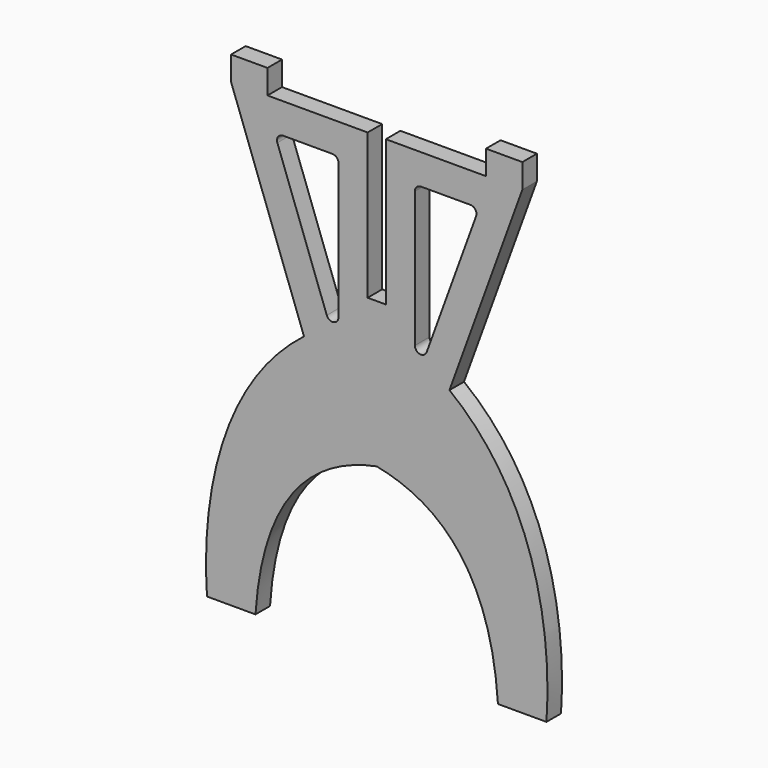
from build123d import *

# Parameters (mm, degrees)
F1_DEPTH = 19.05
F3_DEPTH = 25.4


with BuildPart() as f1:
    # F0 (on Front) → F1 (new body)
    with BuildSketch(Plane.XZ):
        with BuildLine():
            Line((-177.8, 0), (-127, 0))
            add(Edge.make_bspline(
                [(-127, 0), (-121.725351, 79.510622), (-93.250431, 159.403831), (0, 177.8)],
                knots=[0, 0, 0, 0, 218.499062, 218.499062, 218.499062, 218.499062], degree=3))
            add(Edge.make_bspline(
                [(127, 0), (121.725351, 79.510622), (93.250431, 159.403831), (0, 177.8)],
                knots=[0, 0, 0, 0, 218.499062, 218.499062, 218.499062, 218.499062], degree=3))
            Line((127, 0), (177.8, 0))
            add(Edge.make_bspline(
                [(177.8, 0), (182.552382, 63.602008), (175.600886, 195.884856), (76.2, 272.893291)],
                knots=[0, 0, 0, 0, 291.192906, 291.192906, 291.192906, 291.192906], degree=3))
            Line((76.2, 272.893291), (152.527, 482.6))
            Line((152.527, 482.6), (152.527, 508))
            Line((152.527, 508), (114.427, 508))
            Line((114.427, 508), (114.427, 482.6))
            Line((114.427, 482.6), (9.525, 482.6))
            Line((9.525, 482.6), (9.525, 330.2))
            Line((9.525, 330.2), (0, 330.2))
            Line((0, 330.2), (-9.525, 330.2))
            Line((-9.525, 330.2), (-9.525, 482.6))
            Line((-9.525, 482.6), (-114.427, 482.6))
            Line((-114.427, 482.6), (-114.427, 508))
            Line((-114.427, 508), (-152.527, 508))
            Line((-152.527, 508), (-152.527, 482.6))
            Line((-152.527, 482.6), (-76.2, 272.893291))
            add(Edge.make_bspline(
                [(-177.8, 0), (-182.552382, 63.602008), (-175.600886, 195.884856), (-76.2, 272.893291)],
                knots=[0, 0, 0, 0, 291.192906, 291.192906, 291.192906, 291.192906], degree=3))
        make_face()
    extrude(amount=F1_DEPTH)

    # F2 (on face) → F3 (cut)
    with BuildSketch(Plane.XZ.offset(19.05)):
        with BuildLine():
            ThreePointArc((-98.114561, 450.85), (-103.316176, 448.14221), (-104.081609, 442.328172))
            Line((-104.081609, 442.328172), (-52.322048, 300.119947))
            ThreePointArc((-52.322048, 300.119947), (-45.252334, 296.038246), (-40.005, 302.291775))
            Line((-40.005, 302.291775), (-40.005, 444.5))
            ThreePointArc((-40.005, 444.5), (-41.864872, 448.990128), (-46.355, 450.85))
            Line((-46.355, 450.85), (-98.114561, 450.85))
        make_face()
        with BuildLine():
            ThreePointArc((46.355, 450.85), (41.864872, 448.990128), (40.005, 444.5))
            Line((40.005, 444.5), (40.005, 302.291775))
            ThreePointArc((40.005, 302.291775), (45.252334, 296.038246), (52.322048, 300.119947))
            Line((52.322048, 300.119947), (104.081609, 442.328172))
            ThreePointArc((104.081609, 442.328172), (103.316176, 448.14221), (98.114561, 450.85))
            Line((98.114561, 450.85), (46.355, 450.85))
        make_face()
    extrude(amount=-F3_DEPTH, mode=Mode.SUBTRACT)


solid = f1.part
